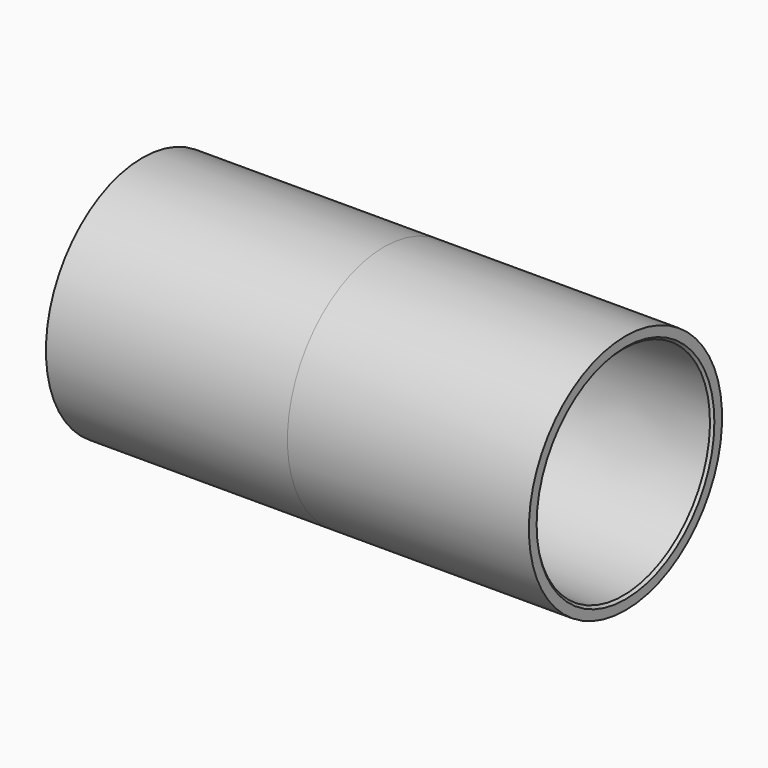
from build123d import *

# Parameters (mm, degrees)
F3_SIZE = 0.508


with BuildPart() as f1:
    # F0 (on Front) → F1 (revolve)
    with BuildSketch(Plane.XZ):
        Polygon((50.8, 25.4), (0, 25.4), (0, 22.098), (50.8, 22.86), align=None)
    revolve(axis=Axis((-51.9470935156, 0, 0), (-1, 0, 0)))

    # F2: F1 across face


with BuildPart() as f1_1:
    add(f1.part)
    add(f1.part.mirror(Plane(origin=(0, 0, 0), x_dir=(0, -1, 0), z_dir=(-1, 0, 0))))

    # F3
    f3_edges = [f1_1.edges().sort_by_distance(p)[0] for p in [
        (-50.8, 0, -22.86),
        (50.8, 0, -22.86),
    ]]
    chamfer(f3_edges, length=F3_SIZE)


solid = f1_1.part
